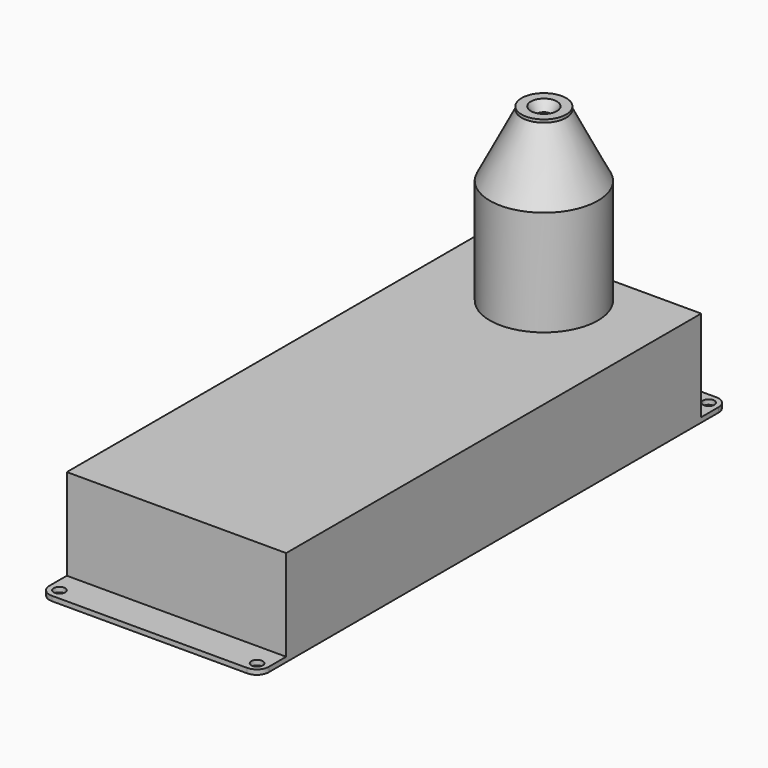
from build123d import *

# Parameters (mm, degrees)
F0_W     = 58
F0_H     = 137.16
F0_R     = 1.524
F1_DEPTH = 1.27
F2_START = 1.27
F2_DEPTH = 24.13


with BuildPart() as f1:
    # F0 (on Top) → F1 (new body)
    with BuildSketch(Plane.XY):
        with Locations((0, -52.8447)):
            Rectangle(F0_W, F0_H)
        with BuildLine():
            Line((-29, 15.7353), (29, 15.7353))
            Line((29, 15.7353), (29, 21.4803))
            ThreePointArc((29, 21.4803), (28.0700640303, 23.7253640303), (25.825, 24.6553))
            Line((25.825, 24.6553), (-25.825, 24.6553))
            ThreePointArc((-25.825, 24.6553), (-28.0700640303, 23.7253640303), (-29, 21.4803))
            Line((-29, 21.4803), (-29, 15.7353))
        make_face()
        with Locations((-26.1366, 21.7678)):
            Circle(F0_R, mode=Mode.SUBTRACT)
        with Locations((26.1366, 21.7678)):
            Circle(F0_R, mode=Mode.SUBTRACT)
        with BuildLine():
            Line((-25.825, -130.3447), (25.825, -130.3447))
            ThreePointArc((25.825, -130.3447), (28.0700640303, -129.4147640303), (29, -127.1697))
            Line((29, -127.1697), (29, -121.4247))
            Line((29, -121.4247), (-29, -121.4247))
            Line((-29, -121.4247), (-29, -127.1697))
            ThreePointArc((-29, -127.1697), (-28.0700640303, -129.4147640303), (-25.825, -130.3447))
        make_face()
        with Locations((-26.1366, -127.4572)):
            Circle(F0_R, mode=Mode.SUBTRACT)
        with Locations((26.1366, -127.4572)):
            Circle(F0_R, mode=Mode.SUBTRACT)
    extrude(amount=F1_DEPTH)

    # F0 (on Top) → F2 (join)
    with BuildSketch(Plane.XY.offset(F2_START)):
        with Locations((0, -52.8447)):
            Rectangle(F0_W, F0_H)
    extrude(amount=F2_DEPTH)

    # F3 (on Right) → F4 (revolve)
    with BuildSketch(Plane.YZ):
        Polygon((5.8928, 70.612), (3.4461211403, 70.612), (2, 68.199), (0, 68.199), (0, 25.4), (14.2875, 25.4), (14.2875, 53.2638), (5.8928, 69.85), align=None)
    revolve(axis=Axis((0, 0, 43.7137000263), (0, 0, 1)))


solid = f1.part
